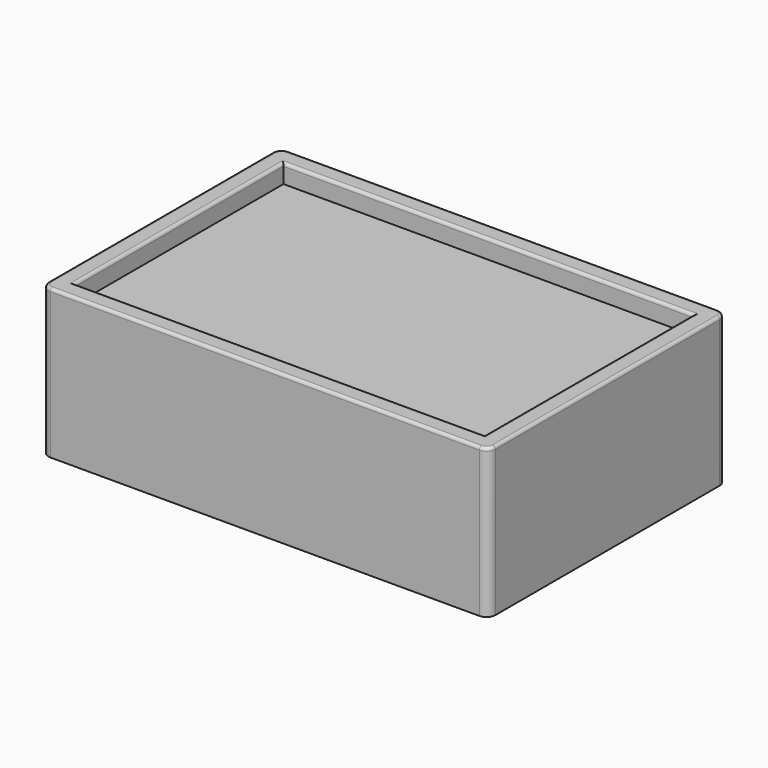
from build123d import *

# Parameters (mm, degrees)
F0_W     = 38.1
F0_H     = 25.4
F1_DEPTH = 12.7
F2_W     = 34.925
F2_H     = 22.225
F3_DEPTH = 1.5875
F4_R     = 0.762
F5_R     = 0.254


with BuildPart() as f1:
    # F0 (on Top) → F1 (new body)
    with BuildSketch(Plane.XY):
        Rectangle(F0_W, F0_H)
    extrude(amount=F1_DEPTH)

    # F2 (on face) → F3 (cut)
    with BuildSketch(Plane.XY.offset(12.7)):
        Rectangle(F2_W, F2_H)
    extrude(amount=-F3_DEPTH, mode=Mode.SUBTRACT)

    # F4
    f4_edges = [f1.edges().sort_by_distance(p)[0] for p in [
        (-19.05, -12.7, 6.35),
        (-19.05, 12.7, 6.35),
        (19.05, 12.7, 6.35),
        (19.05, -12.7, 6.35),
    ]]
    fillet(f4_edges, radius=F4_R)

    # F5
    f5_edges = [f1.edges().sort_by_distance(p)[0] for p in [
        (0, 12.7, 12.7),
        (18.826815, 12.476815, 12.7),
        (-18.826815, 12.476815, 12.7),
        (19.05, 0, 12.7),
        (-19.05, 0, 12.7),
        (18.826815, -12.476815, 12.7),
        (-18.826815, -12.476815, 12.7),
        (0, -12.7, 12.7),
        (0, 11.1125, 12.7),
        (-17.4625, 0, 12.7),
        (0, -11.1125, 12.7),
        (17.4625, 0, 12.7),
    ]]
    fillet(f5_edges, radius=F5_R)


solid = f1.part
